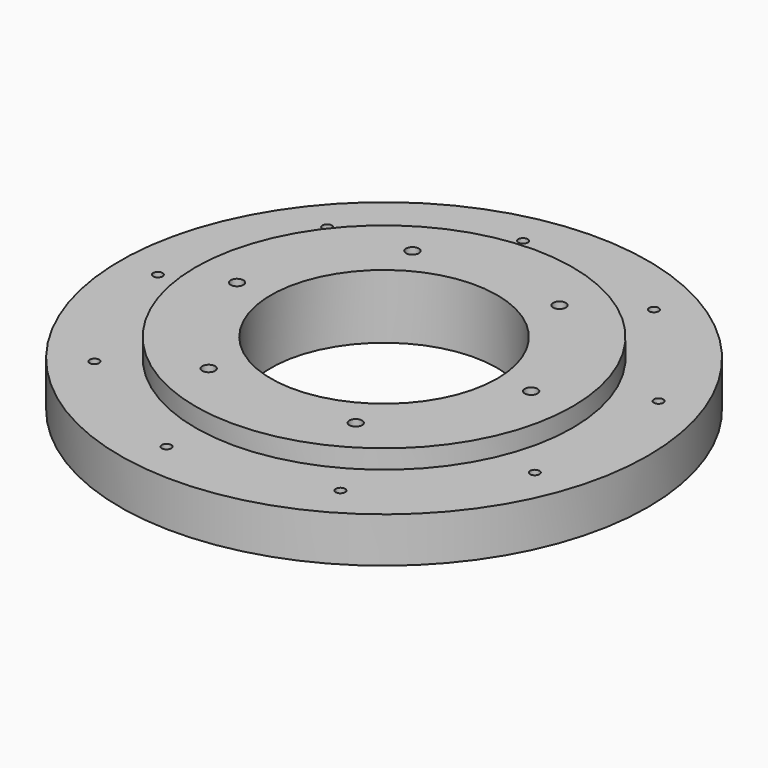
from build123d import *

# Parameters (mm, degrees)
SKETCH_R      = 70
SKETCH_R_2    = 30
SKETCH_R_3    = 1.25
PAD_DEPTH     = 12
SKETCH001_R   = 50
SKETCH001_R_2 = 30
SKETCH001_R_3 = 1.7
PAD001_DEPTH  = 5
SKETCH003_R   = 1.7
POCKET_DEPTH  = 10.001


with BuildPart() as part:
    # Sketch → Pad (new body)
    with BuildSketch(Plane.XY):
        Circle(SKETCH_R)
        Circle(SKETCH_R_2, mode=Mode.SUBTRACT)
        with Locations((-60, 0)):
            Circle(SKETCH_R_3, mode=Mode.SUBTRACT)
        with Locations((-45.962667, 38.567257)):
            Circle(SKETCH_R_3, mode=Mode.SUBTRACT)
        with Locations((-45.962667, -38.567257)):
            Circle(SKETCH_R_3, mode=Mode.SUBTRACT)
        with Locations((-10.418891, -59.088465)):
            Circle(SKETCH_R_3, mode=Mode.SUBTRACT)
        with Locations((30, -51.961524)):
            Circle(SKETCH_R_3, mode=Mode.SUBTRACT)
        with Locations((56.381557, -20.521209)):
            Circle(SKETCH_R_3, mode=Mode.SUBTRACT)
        with Locations((56.381557, 20.521209)):
            Circle(SKETCH_R_3, mode=Mode.SUBTRACT)
        with Locations((30, 51.961524)):
            Circle(SKETCH_R_3, mode=Mode.SUBTRACT)
        with Locations((-10.418891, 59.088465)):
            Circle(SKETCH_R_3, mode=Mode.SUBTRACT)
    extrude(amount=PAD_DEPTH)

    # Sketch001 (on Face13 of Pad) → Pad001 (join)
    with BuildSketch(Plane.XY.offset(12)):
        Circle(SKETCH001_R)
        Circle(SKETCH001_R_2, mode=Mode.SUBTRACT)
        with Locations((-19.5, 33.774991)):
            Circle(SKETCH001_R_3, mode=Mode.SUBTRACT)
        with Locations((19.5, 33.774991)):
            Circle(SKETCH001_R_3, mode=Mode.SUBTRACT)
        with Locations((39, 0)):
            Circle(SKETCH001_R_3, mode=Mode.SUBTRACT)
        with Locations((-39, 0)):
            Circle(SKETCH001_R_3, mode=Mode.SUBTRACT)
        with Locations((-19.5, -33.774991)):
            Circle(SKETCH001_R_3, mode=Mode.SUBTRACT)
        with Locations((19.5, -33.774991)):
            Circle(SKETCH001_R_3, mode=Mode.SUBTRACT)
    extrude(amount=PAD001_DEPTH)

    # Sketch003 → Pocket (cut, through all)
    with BuildSketch(Plane.XY.offset(10)):
        with Locations((-19.5, 33.774991)):
            Circle(SKETCH003_R)
        with Locations((19.5, 33.774991)):
            Circle(SKETCH003_R)
        with Locations((39, 0)):
            Circle(SKETCH003_R)
        with Locations((-39, 0)):
            Circle(SKETCH003_R)
        with Locations((-19.5, -33.774991)):
            Circle(SKETCH003_R)
        with Locations((19.5, -33.774991)):
            Circle(SKETCH003_R)
    extrude(amount=-POCKET_DEPTH, mode=Mode.SUBTRACT)


solid = part.part
